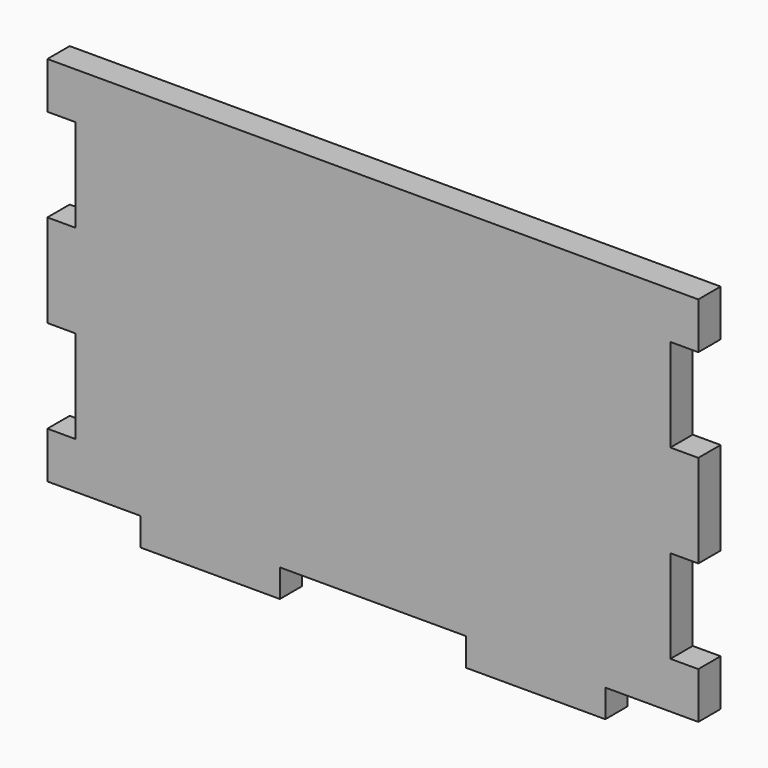
from build123d import *

# Parameters (mm, degrees)
F1_DEPTH = 3


with BuildPart() as f1:
    # F0 (on Front) → F1 (new body)
    with BuildSketch(Plane.XZ):
        Polygon((25, -20), (35, -20), (35, -15), (32, -15), (32, -5), (35, -5), (35, 5), (32, 5), (32, 15), (35, 15), (35, 20), (-35, 20), (-35, 15), (-32, 15), (-32, 5), (-35, 5), (-35, -5), (-32, -5), (-32, -15), (-35, -15), (-35, -20), (-25, -20), (-25, -23), (-10, -23), (-10, -20), (10, -20), (10, -23), (25, -23), align=None)
    extrude(amount=F1_DEPTH)


solid = f1.part
